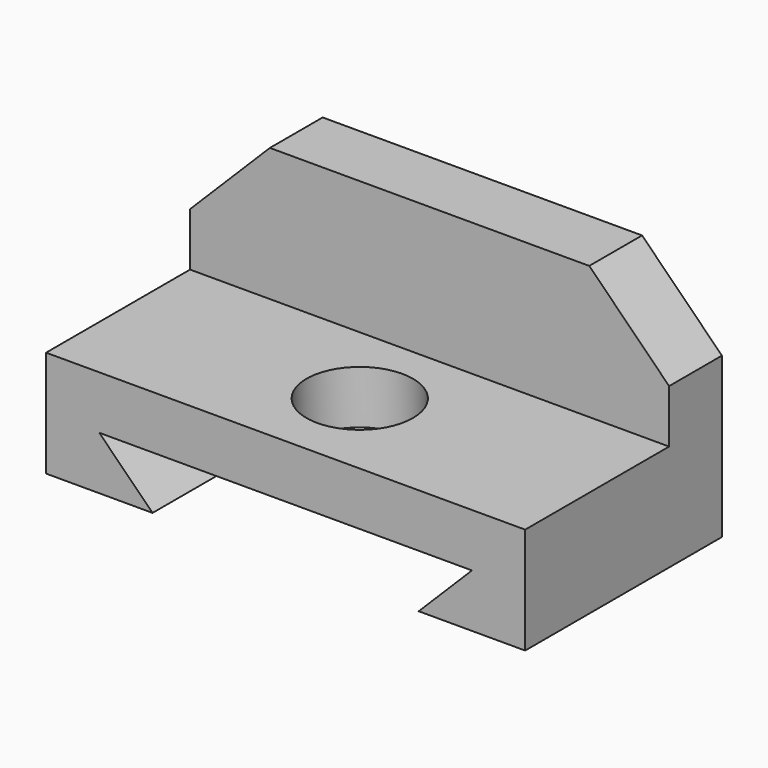
from build123d import *

# Parameters (mm, degrees)
F0_W     = 114.3
F0_H     = 57.15
F1_DEPTH = 58.674
F2_W     = 114.3
F2_H     = 42.926
F3_DEPTH = 31.75
F5_DEPTH = 15.748
F7_R     = 12.7
F8_DEPTH = 25.4
F9_DEPTH = 58.674


with BuildPart() as f1:
    # F0 (on Front) → F1 (new body)
    with BuildSketch(Plane.XZ):
        with Locations((-29.805122, -8.710917)):
            Rectangle(F0_W, F0_H)
    extrude(amount=F1_DEPTH)

    # F2 (on face) → F3 (cut)
    with BuildSketch(Plane.XY.offset(19.864083)):
        with Locations((-29.805122, -37.211)):
            Rectangle(F2_W, F2_H)
    extrude(amount=-F3_DEPTH, mode=Mode.SUBTRACT)

    # F4 (on face) → F5 (cut)
    with BuildSketch(Plane.XZ.offset(15.748)):
        Polygon((27.344878, 0.814083), (27.344878, 19.864083), (8.294878, 19.864083), align=None)
        Polygon((-67.905122, 19.864083), (-86.955122, 19.864083), (-86.955122, 0.814083), align=None)
    extrude(amount=-F5_DEPTH, mode=Mode.SUBTRACT)

    # F7 (on face) → F8 (cut)
    with BuildSketch(Plane.XY.offset(-11.885917)):
        with Locations((-29.805122, -36.576)):
            Circle(F7_R)
    extrude(amount=-F8_DEPTH, mode=Mode.SUBTRACT)

    # F6 (on face) → F9 (cut)
    with BuildSketch(Plane.XZ.offset(58.674)):
        Polygon((-29.805122, -24.585917), (-29.805122, -37.285917), (1.944878, -37.285917), (14.644878, -24.585917), align=None)
        Polygon((-61.555122, -37.285917), (-29.805122, -37.285917), (-29.805122, -24.585917), (-74.255122, -24.585917), align=None)
    extrude(amount=-F9_DEPTH, mode=Mode.SUBTRACT)


solid = f1.part
